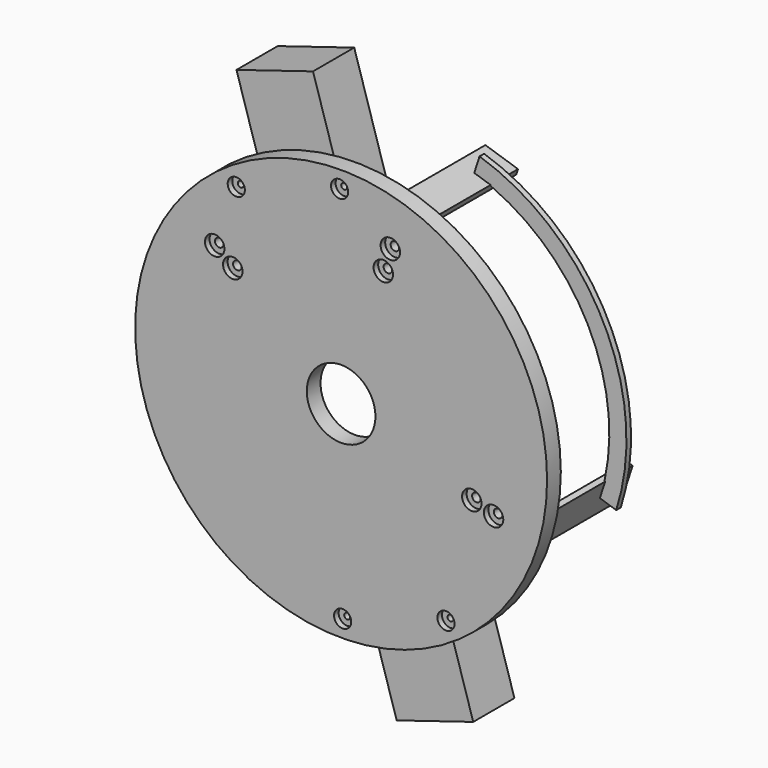
from build123d import *

# Parameters (mm, degrees)
F0_R      = 228.6
F1_DEPTH  = 19.05
F2_R      = 38.1
F3_DEPTH  = 19.051
F4_R      = 4.7625
F4_R_2    = 3.302
F5_DEPTH  = 19.051
F6_R      = 10.795
F6_R_2    = 9.525
F7_DEPTH  = 6.35
F8_R      = 5.55625
F9_DEPTH  = 6.35
F11_DEPTH = 114.3
F13_ANGLE = -90
F14_ANGLE = -70
F16_START = 82.55
F16_DEPTH = 6.35
F17_START = -19.05
F17_DEPTH = 57.15


with BuildPart() as f1:
    # F0 (on Front) → F1 (new body)
    with BuildSketch(Plane.XZ):
        Circle(F0_R)
    extrude(amount=F1_DEPTH)

    # F2 (on face) → F3 (cut, through all)
    with BuildSketch(Plane.XZ.offset(19.05)):
        Circle(F2_R)
    extrude(amount=-F3_DEPTH, mode=Mode.SUBTRACT)

    # F4 (on face) → F5 (cut, through all)
    with BuildSketch(Plane.XZ.offset(19.05)):
        with Locations((54.6368427384, 169.1970904466)):
            Circle(F4_R)
        with Locations((46.83157949, 145.0260775256)):
            Circle(F4_R)
        with Locations((-120.262591343, 93.6091294878)):
            Circle(F4_R)
        with Locations((-140.3063565668, 109.2106510691)):
            Circle(F4_R)
        with Locations((169.1970904466, -54.6368427384)):
            Circle(F4_R)
        with Locations((145.0260775256, -46.83157949)):
            Circle(F4_R)
        with Locations((116.3612029283, -174.1393294264)):
            Circle(F4_R_2)
        with Locations((1.6683695796, -209.4317362363)):
            Circle(F4_R_2)
        with Locations((-116.3612029283, 174.1393294264)):
            Circle(F4_R_2)
        with Locations((-1.6683695796, 209.4317362363)):
            Circle(F4_R_2)
    extrude(amount=-F5_DEPTH, mode=Mode.SUBTRACT)

    # F6 (on face) → F7 (cut)
    with BuildSketch(Plane.XZ.offset(19.05)):
        with Locations((-120.262591343, 93.6091294878)):
            Circle(F6_R)
        with Locations((-140.3063565668, 109.2106510691)):
            Circle(F6_R)
        with Locations((-1.6683695796, 209.4317362363)):
            Circle(F6_R_2)
        with Locations((-116.3612029283, 174.1393294264)):
            Circle(F6_R_2)
        with Locations((116.3612029283, -174.1393294264)):
            Circle(F6_R_2)
        with Locations((1.6683695796, -209.4317362363)):
            Circle(F6_R_2)
        with Locations((54.6368427384, 169.1970904466)):
            Circle(F6_R)
        with Locations((46.83157949, 145.0260775256)):
            Circle(F6_R)
        with Locations((169.1970904466, -54.6368427384)):
            Circle(F6_R)
        with Locations((145.0260775256, -46.83157949)):
            Circle(F6_R)
    extrude(amount=-F7_DEPTH, mode=Mode.SUBTRACT)


with BuildPart() as f9:
    # F8 (on face) → F9 (new body)
    with BuildSketch(Plane(origin=(0, 0, 0), x_dir=(-1, 0, 0), z_dir=(0, 1, 0))):
        Polygon((-135.6220730555, -23.7762473738), (-211.7607637565, -48.3628266061), (-200.052868884, -84.6193459875), (-123.914178183, -60.0327667552), align=None)
        with Locations((-169.1970904466, -54.6368427384)):
            Circle(F8_R, mode=Mode.SUBTRACT)
        with Locations((-145.0260775256, -46.83157949)):
            Circle(F8_R, mode=Mode.SUBTRACT)
    extrude(amount=F9_DEPTH)

    # F10 (on face) → F11 (join)
    with BuildSketch(Plane(origin=(0, 6.35, 0), x_dir=(-1, 0, 0), z_dir=(0, 1, 0))):
        Polygon((-205.7180105263, -46.411510794), (-211.7607637565, -48.3628266061), (-200.052868884, -84.6193459875), (-194.0101156537, -82.6680301754), align=None)
    extrude(amount=F11_DEPTH)


with BuildPart() as f13_1:
    # F13: copy of F9
    add(f9.part.rotate(Axis((0, 15.5997965485, 0), (0, 1, 0)), F13_ANGLE))


with BuildPart() as f14_1:
    # F14: copy of F13_1
    add(f13_1.part.rotate(Axis((0, 15.5997965485, 0), (0, 1, 0)), F14_ANGLE))


with BuildPart() as f16:
    # F15 (on face) → F16 (new body)
    with BuildSketch(Plane(origin=(0, 0, 0), x_dir=(-1, 0, 0), z_dir=(0, 1, 0)).offset(F16_START)):
        with BuildLine():
            ThreePointArc((-205.9068163202, -66.4910862968), (-192.6144041215, 98.5818081036), (-66.4910862968, 205.9068163202))
            Line((-66.4910862968, 205.9068163202), (-72.345033733, 224.0350760109))
            ThreePointArc((-72.345033733, 224.0350760109), (-209.5723854088, 107.2610575332), (-224.0350760109, -72.345033733))
            Line((-224.0350760109, -72.345033733), (-205.9068163202, -66.4910862968))
        make_face()
    extrude(amount=F16_DEPTH)


with BuildPart() as f17:
    # F4 (on face) → F17 (new body)
    with BuildSketch(Plane.XZ.offset(19.05).offset(F17_START)):
        with BuildLine():
            Line((-5.8800290899, -132.028479344), (23.4646758954, -227.3925438204))
            ThreePointArc((23.4646758954, -227.3925438204), (67.2320349729, -218.4898475294), (108.4329499346, -201.2467524421))
            Line((108.4329499346, -201.2467524421), (79.0882449493, -105.8826879657))
            Line((79.0882449493, -105.8826879657), (-5.8800290899, -132.028479344))
        make_face()
        with BuildLine():
            ThreePointArc((108.4329499346, -201.2467524421), (67.2320349729, -218.4898475294), (23.4646758954, -227.3925438204))
            Line((23.4646758954, -227.3925438204), (46.4115536667, -301.9650274224))
            Line((46.4115536667, -301.9650274224), (131.3798277059, -275.8192360441))
            Line((131.3798277059, -275.8192360441), (108.4329499346, -201.2467524421))
        make_face()
    extrude(amount=-F17_DEPTH)


with BuildPart() as f17b:
    # F4 (on face) → F17, piece 2 (new body)
    with BuildSketch(Plane.XZ.offset(19.05).offset(F17_START)):
        with BuildLine():
            Line((-108.4329499346, 201.2467524421), (-79.0882449493, 105.8826879657))
            Line((-79.0882449493, 105.8826879657), (5.8800290899, 132.028479344))
            Line((5.8800290899, 132.028479344), (-23.4646758954, 227.3925438204))
            ThreePointArc((-23.4646758954, 227.3925438204), (-67.2320349729, 218.4898475294), (-108.4329499346, 201.2467524421))
        make_face()
        with BuildLine():
            Line((-131.3798277059, 275.8192360441), (-108.4329499346, 201.2467524421))
            ThreePointArc((-108.4329499346, 201.2467524421), (-67.2320349729, 218.4898475294), (-23.4646758954, 227.3925438204))
            Line((-23.4646758954, 227.3925438204), (-46.4115536667, 301.9650274224))
            Line((-46.4115536667, 301.9650274224), (-131.3798277059, 275.8192360441))
        make_face()
    extrude(amount=-F17_DEPTH)


solid = Compound([f1.part, f9.part, f13_1.part, f14_1.part, f16.part, f17.part, f17b.part])
